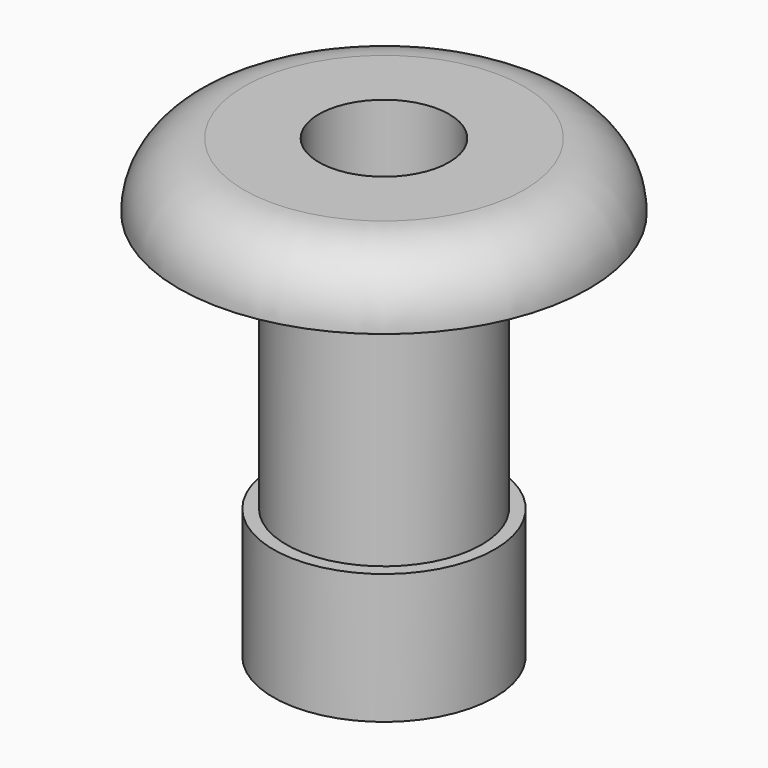
from build123d import *

# Parameters (mm, degrees)
F2_R     = 1.5875
F3_DEPTH = 9.525
F4_R     = 1.5875


with BuildPart() as f1:
    # F0 (on Front) → F1 (revolve)
    with BuildSketch(Plane.XZ):
        Polygon((5.0038, 0), (0, 0), (0, -11.1252), (2.38125, -11.1252), (2.69875, -11.1252), (2.69875, -7.9502), (2.38125, -7.9502), (2.38125, -1.6002), (5.0038, -1.6002), align=None)
    revolve(axis=Axis((0, 0, -5.5626), (0, 0, 1)))

    # F2 (on face) → F3 (cut)
    with BuildSketch(Plane.XY):
        Circle(F2_R)
    extrude(amount=-F3_DEPTH, mode=Mode.SUBTRACT)

    # F4
    f4_edges = [f1.edges().sort_by_distance(p)[0] for p in [
        (-5.0038, 0, 0),
    ]]
    fillet(f4_edges, radius=F4_R)


with BuildPart() as f1_1:
    # F5: moved
    add(f1.part.moved(Location((0, 0, 1.5875))))


solid = f1_1.part
